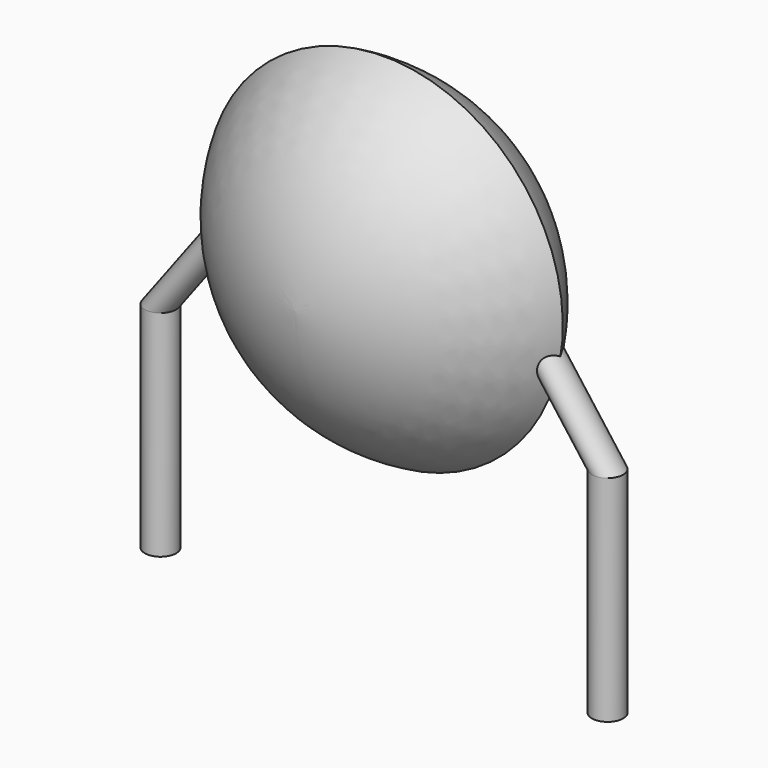
from build123d import *

# Parameters (mm, degrees)
SKETCH001_R       = 0.35
PAD001_DEPTH      = 1.6
PAD001_DEPTH_BACK = 3.2
SKETCH002_R       = 0.35
SKETCH003_R       = 0.35
SKETCH004_R       = 0.35
SKETCH005_R       = 0.35


with BuildPart() as pad001:
    # Sketch001 → Pad001 (new body, two sides)
    with BuildSketch(Plane.XY) as pad001_sk:
        Circle(SKETCH001_R)
        with Locations((10, 0)):
            Circle(SKETCH001_R)
    extrude(amount=PAD001_DEPTH)
    extrude(pad001_sk.sketch, amount=-PAD001_DEPTH_BACK)


with BuildPart() as revolution:
    # Sketch → Revolution (revolve)
    with BuildSketch(Plane.YZ.offset(5)):
        with BuildLine():
            Line((-2.5, 4.1), (2.5, 4.1))
            ThreePointArc((0, 0.1), (1.786986, 1.764384), (2.5, 4.1))
            ThreePointArc((-2.5, 4.1), (-1.786986, 1.764384), (0, 0.1))
        make_face()
    revolve(axis=Axis((5, -3.32079, 4.1), (0, 1, 0)))


with BuildPart() as loft_body:
    # Sketch002 → Loft section 0
    with BuildSketch(Plane.XY.offset(4)):
        with Locations((1.8, 0)):
            Circle(SKETCH002_R)
    # Sketch003 → Loft section 1
    with BuildSketch(Plane.XY.offset(1.6)):
        Circle(SKETCH003_R)
    loft()


with BuildPart() as loft001:
    # Sketch004 → Loft001 section 0
    with BuildSketch(Plane.XY.offset(1.6)):
        with Locations((10, 0)):
            Circle(SKETCH004_R)
    # Sketch005 → Loft001 section 1
    with BuildSketch(Plane.XY.offset(4)):
        with Locations((8.2, 0)):
            Circle(SKETCH005_R)
    loft()


solid = Compound([pad001.part, revolution.part, loft_body.part, loft001.part])
